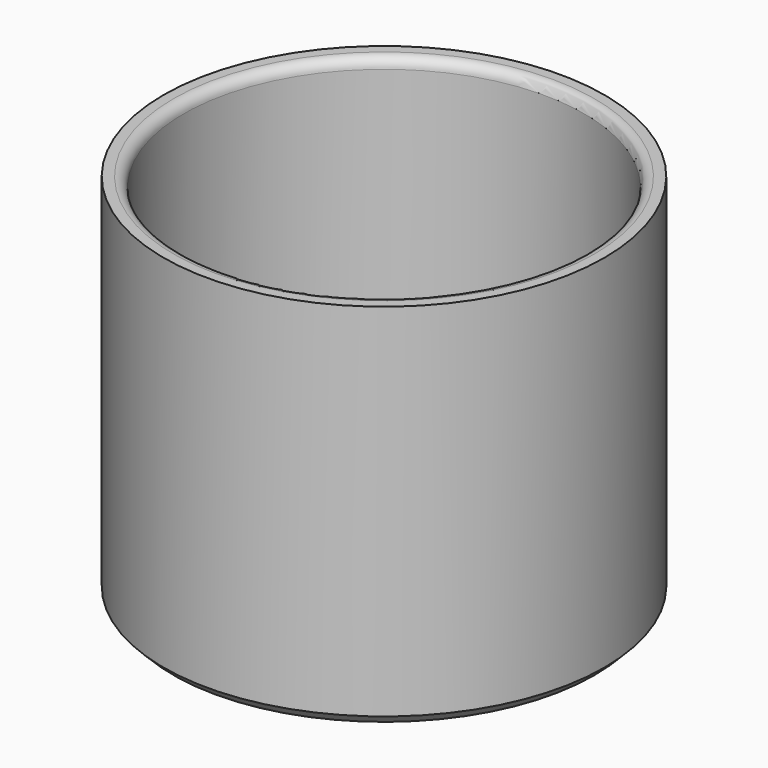
from build123d import *

# Parameters (mm, degrees)
FILLET_R     = 0.25
FILLET001_R  = 1
CHAMFER_SIZE = 1


with BuildPart() as part:
    # Sketch → Revolution (revolve)
    with BuildSketch(Plane.XZ):
        Polygon((22, 0), (22, 37), (20, 37), (20, 10), (19.5, 9.5), (20, 9), (20, 8), (19.5, 7.5), (20, 7), (20, 2), (0, 2), (0, 0), align=None)
    revolve(axis=Axis((0, 0, 0), (0, 0, 1)))

    # Fillet
    fillet_edges = [part.edges().sort_by_distance(p)[0] for p in [
        (-19.5, 0, 7.5),
        (-19.5, 0, 9.5),
    ]]
    fillet(fillet_edges, radius=FILLET_R)

    # Fillet001
    fillet001_edges = [part.edges().sort_by_distance(p)[0] for p in [
        (-20, 0, 37),
    ]]
    fillet(fillet001_edges, radius=FILLET001_R)

    # Chamfer
    chamfer_edges = [part.edges().sort_by_distance(p)[0] for p in [
        (-22, 0, 0),
    ]]
    chamfer(chamfer_edges, length=CHAMFER_SIZE)


solid = part.part
